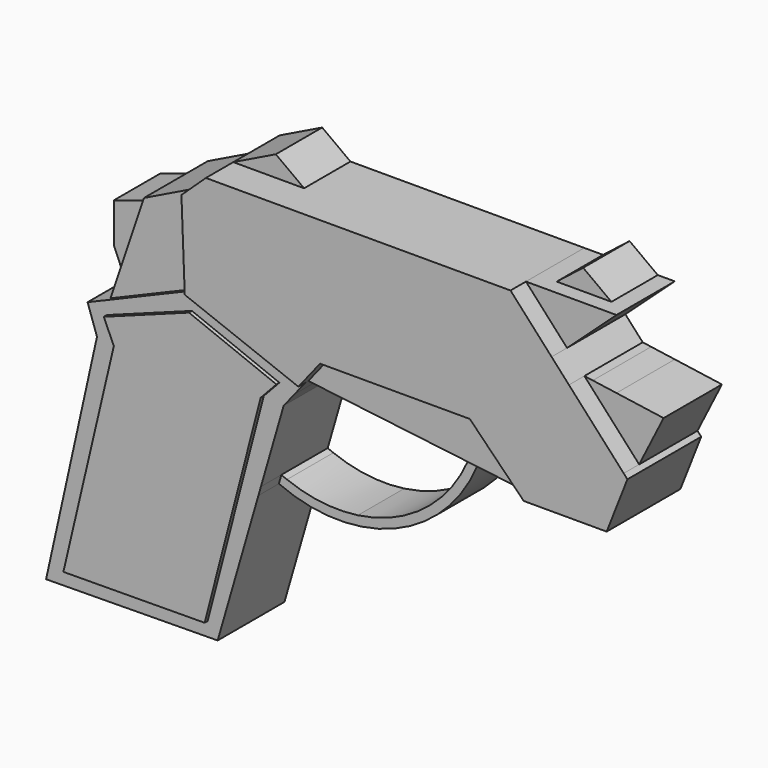
from build123d import *

# Parameters (mm, degrees)
F1_DEPTH = 14.8
F2_DEPTH = 12.8
F3_DEPTH = 14
F4_DEPTH = 13.4
F5_DEPTH = 9.3
F6_DEPTH = 11.7


with BuildPart() as f1:
    # F0 (on Front) → F1 (new body)
    with BuildSketch(Plane.XZ):
        Polygon((21.609111, 17.452165), (30.2558, 8.676423), (43.570716, 8.676423), (46.899447, 17.149554), (46.305027, 17.801499), (37.518481, 27.438356), (34.731223, 30.495349), (28.137514, 37.727159), (-9.386347, 37.727159), (-20.750649, 37.727159), (-24.672133, 34.049701), (-24.138673, 20.123417), (-5.906312, 13.064294), (-2.426276, 17.452165), align=None)
    extrude(amount=F1_DEPTH)


with BuildPart() as f2:
    # F0 (on Front) → F2 (new body)
    with BuildSketch(Plane.XZ):
        Polygon((-32.967201, 28.33666), (-37.661809, 14.413761), (-24.138673, 20.123417), (-24.672133, 34.049701), (-32.294322, 30.332234), align=None)
        Polygon((17.811619, 10.186386), (19.254982, 10.01125), (30.2558, 8.676423), (21.609111, 17.452165), (-2.426276, 17.452165), (-5.906312, 13.064294), (5.013908, 11.739247), align=None)
    extrude(amount=F2_DEPTH)


with BuildPart() as f3:
    # F0 (on Front) → F3 (new body)
    with BuildSketch(Plane.XZ):
        Polygon((-10.070257, 11.708856), (-24.105113, 17.286811), (-37.780102, 12.248658), (-36.160696, 8.649977), (-44.257727, -25.897361), (-21.586036, -25.71743), (-12.589334, 9.009845), align=None)
    extrude(amount=F3_DEPTH)


with BuildPart() as f4:
    # F0 (on Front) → F4 (new body)
    with BuildSketch(Plane.XZ):
        Polygon((-47.515433, -28.242217), (-19.97776, -27.939606), (-13.438908, -5.333863), (-13.035865, -3.940483), (-9.386347, 8.676423), (-7.646329, 10.870358), (-5.906312, 13.064294), (-24.138673, 20.123417), (-37.661809, 14.413761), (-40.857976, 13.064294), (-39.344918, 8.676423), align=None)
        Polygon((-37.780102, 12.248658), (-24.105113, 17.286811), (-10.070257, 11.708856), (-12.589334, 9.009845), (-21.586036, -25.71743), (-44.257727, -25.897361), (-36.160696, 8.649977), align=None, mode=Mode.SUBTRACT)
    extrude(amount=F4_DEPTH)


with BuildPart() as f5:
    # F0 (on Front) → F5 (new body)
    with BuildSketch(Plane.XZ):
        Polygon((-39.916511, 19.753949), (-37.661809, 14.413761), (-32.967201, 28.33666), (-39.916511, 26.10358), align=None)
        Polygon((-13.925524, 41.055884), (-20.750649, 37.727159), (-9.386347, 37.727159), align=None)
        Polygon((35.4002, 41.055884), (31.156536, 37.727159), (39.939377, 37.727159), align=None)
        with BuildLine():
            Line((-13.035865, -3.940483), (-13.438908, -5.333863))
            ThreePointArc((-13.438908, -5.333863), (6.390889, -5.081779), (19.254982, 10.01125))
            Line((19.254982, 10.01125), (17.811619, 10.186386))
            ThreePointArc((17.811619, 10.186386), (10.844493, -0.460302), (-0.763695, -5.670176))
            ThreePointArc((-0.763695, -5.670176), (-6.537311, -5.723916), (-12.136886, -4.315975))
            ThreePointArc((-12.136886, -4.315975), (-12.588395, -4.133064), (-13.035865, -3.940483))
        make_face()
    extrude(amount=F5_DEPTH)


with BuildPart() as f6:
    # F0 (on Front) → F6 (new body)
    with BuildSketch(Plane.XZ):
        Polygon((28.137514, 37.727159), (34.731223, 30.495349), (35.911573, 31.571551), (41.032836, 36.240938), (42.662885, 37.727159), (39.939377, 37.727159), (31.156536, 37.727159), align=None)
        Polygon((37.518481, 27.438356), (46.305027, 17.801499), (50.228179, 25.622685), (42.662885, 26.703441), (38.869104, 27.24541), align=None)
    extrude(amount=F6_DEPTH)


solid = Compound([f1.part, f2.part, f3.part, f4.part, f5.part, f6.part])
